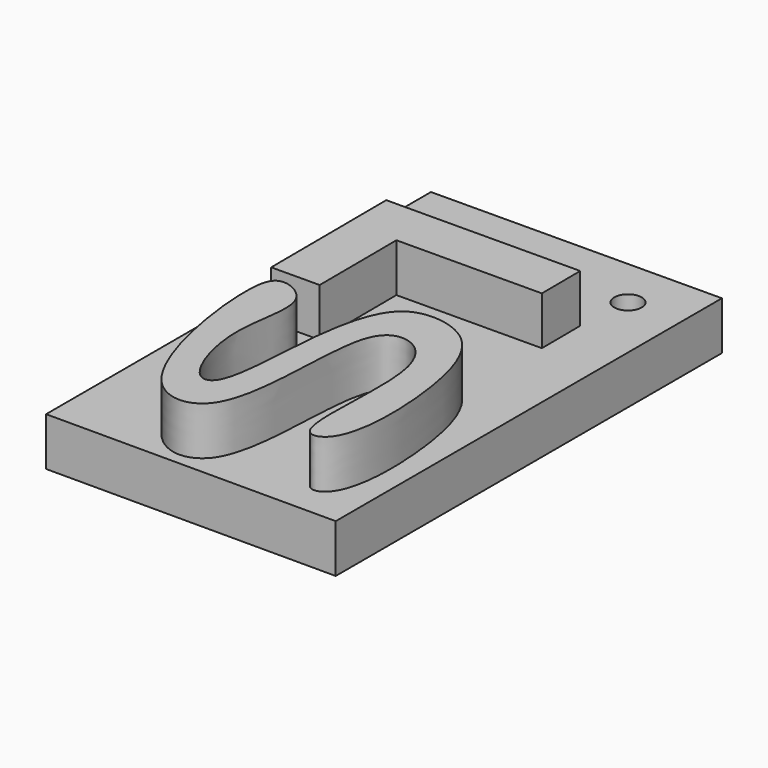
from build123d import *

# Parameters (mm, degrees)
F1_DEPTH = 10
F0_R     = 1.4242092256
F2_DEPTH = 5


with BuildPart() as f1:
    # F0 (on Top) → F1 (new body)
    with BuildSketch(Plane.XY):
        with BuildLine():
            add(Edge.make_bspline(
                [(-50.6188306212, -59.8320406675), (-51.8763890405, -58.1221955441), (-49.6755731791, -45.7565356068), (-54.4556459997, -41.6853015467), (-58.9103885717, -43.8949223614), (-56.8307000705, -62.6420429857), (-67.6513609777, -62.6444077768), (-70.6773389561, -44.080146862), (-69.2683431434, -39.9962619349), (-64.3396150969, -42.4583762396), (-67.2403392891, -49.9769858106), (-64.3006203541, -58.3370219688), (-61.1678000982, -57.973337465), (-60.9369998943, -48.2871210226), (-59.9020068956, -41.0044863602), (-57.0860537623, -37.4675945328), (-49.9625833306, -38.5667635054), (-47.0895895792, -48.2823526962), (-47.2278885022, -59.7390856185), (-50.1342110421, -60.4909559207), (-50.6188306212, -59.8320406675)],
                knots=[0, 0, 0, 0, 0.078717634, 0.1269182793, 0.1653488106, 0.2522263948, 0.3026346771, 0.3927744121, 0.4304815133, 0.4695619276, 0.5288583996, 0.5893165451, 0.6154571645, 0.6796262262, 0.7399543756, 0.7811635169, 0.8314675952, 0.8991364165, 0.9696649427, 1, 1, 1, 1], degree=3))
        make_face()
    extrude(amount=F1_DEPTH)


with BuildPart() as f1b:
    # F0 (on Top) → F1, piece 2 (new body)
    with BuildSketch(Plane.XY):
        Polygon((-51.02411856, -29.2912871681), (-51.0524106121, -24.2913672128), (-71.0520904335, -24.4045354213), (-70.9672142771, -39.4042952874), (-65.9672943217, -39.3760032352), (-66.023878426, -29.3761633245), align=None)
    extrude(amount=F1_DEPTH)


with BuildPart() as f2:
    # F0 (on Top) → F2 (new body)
    with BuildSketch(Plane.XY):
        Polygon((-75.1178513021, -13.5323244519), (-75.1183315701, -63.3625721391), (-45.1183315701, -63.3625721391), (-45.1183315701, -13.3625721391), align=None)
        with BuildLine():
            add(Edge.make_bspline(
                [(-50.6188306212, -59.8320406675), (-51.8763890405, -58.1221955441), (-49.6755731791, -45.7565356068), (-54.4556459997, -41.6853015467), (-58.9103885717, -43.8949223614), (-56.8307000705, -62.6420429857), (-67.6513609777, -62.6444077768), (-70.6773389561, -44.080146862), (-69.2683431434, -39.9962619349), (-64.3396150969, -42.4583762396), (-67.2403392891, -49.9769858106), (-64.3006203541, -58.3370219688), (-61.1678000982, -57.973337465), (-60.9369998943, -48.2871210226), (-59.9020068956, -41.0044863602), (-57.0860537623, -37.4675945328), (-49.9625833306, -38.5667635054), (-47.0895895792, -48.2823526962), (-47.2278885022, -59.7390856185), (-50.1342110421, -60.4909559207), (-50.6188306212, -59.8320406675)],
                knots=[0, 0, 0, 0, 0.078717634, 0.1269182793, 0.1653488106, 0.2522263948, 0.3026346771, 0.3927744121, 0.4304815133, 0.4695619276, 0.5288583996, 0.5893165451, 0.6154571645, 0.6796262262, 0.7399543756, 0.7811635169, 0.8314675952, 0.8991364165, 0.9696649427, 1, 1, 1, 1], degree=3))
        make_face(mode=Mode.SUBTRACT)
        Polygon((-71.0520904335, -24.4045354213), (-51.0524106121, -24.2913672128), (-51.02411856, -29.2912871681), (-66.023878426, -29.3761633245), (-65.9672943217, -39.3760032352), (-70.9672142771, -39.4042952874), align=None, mode=Mode.SUBTRACT)
        with Locations((-50.5962856114, -18.6743661761)):
            Circle(F0_R, mode=Mode.SUBTRACT)
    extrude(amount=F2_DEPTH)


solid = Compound([f1.part, f1b.part, f2.part])
